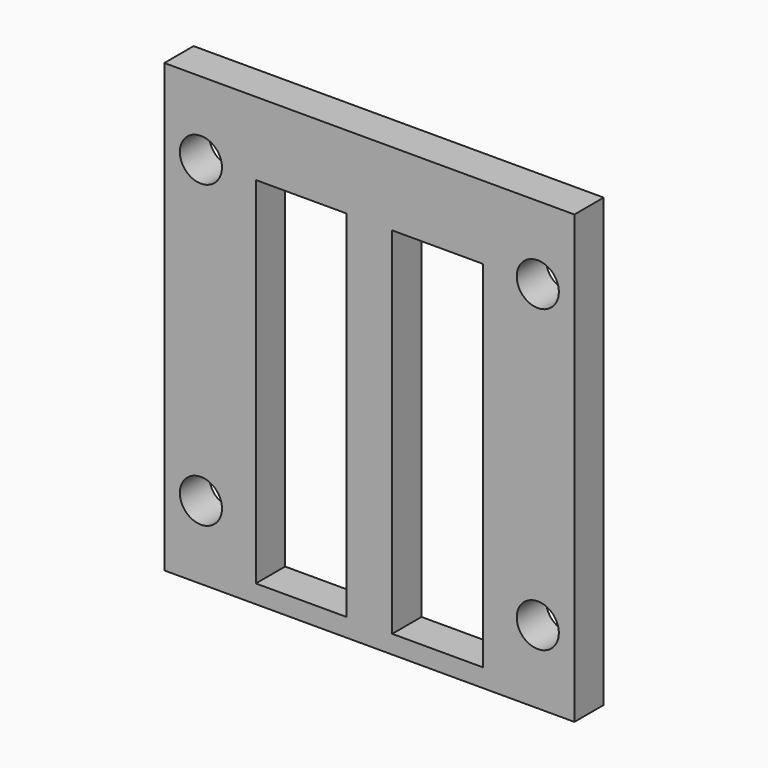
from build123d import *

# Parameters (mm, degrees)
F0_W     = 1.2
F0_H     = 1
F0_W_2   = 1.5
F0_W_3   = 4
F0_H_2   = 2
F0_R     = 1.15
F0_W_4   = 1
F0_H_3   = 4
F0_H_4   = 12.4
F0_W_5   = 4.95
F1_DEPTH = 2


with BuildPart() as f1:
    # F0 (on Front) → F1 (new body)
    with BuildSketch(Plane.XZ):
        with Locations((16.8, 0.5)):
            Rectangle(F0_W, F0_H)
        with Locations((15.45, 0.5)):
            Rectangle(F0_W_2, F0_H)
        Polygon((14.7, 0), (14.7, 1), (12.45, 1), (11.2, 1), (9.95, 1), (7.7, 1), (7.7, 0), align=None)
        Polygon((17.4, 20.4), (17.4, 1), (17.4, 0), (18.4, 0), (18.4, 2), (18.4, 6), (18.4, 18.4), (18.4, 20.4), align=None)
        with Locations((6.95, 0.5)):
            Rectangle(F0_W_2, F0_H)
        with Locations((20.4, 1)):
            Rectangle(F0_W_3, F0_H_2)
        Polygon((18.4, 22.4), (18.4, 20.4), (18.4, 18.4), (22.4, 18.4), (22.4, 22.4), align=None)
        with Locations((20.4, 20.4)):
            Circle(F0_R, mode=Mode.SUBTRACT)
        with Locations((17.9, 23.4)):
            Rectangle(F0_W_4, F0_H_2)
        Polygon((12.45, 22.4), (17.4, 22.4), (17.4, 24.4), (11.2, 24.4), (11.2, 22.4), align=None)
        with Locations((5.6, 0.5)):
            Rectangle(F0_W, F0_H)
        with Locations((20.4, 4)):
            Rectangle(F0_W_3, F0_H_3)
        with Locations((20.4, 4)):
            Circle(F0_R, mode=Mode.SUBTRACT)
        with Locations((20.4, 12.2)):
            Rectangle(F0_W_3, F0_H_4)
        with Locations((20.4, 23.4)):
            Rectangle(F0_W_3, F0_H_2)
        Polygon((4, 0), (5, 0), (5, 1), (5, 20.4), (4, 20.4), (4, 18.4), (4, 6), (4, 2), align=None)
        Polygon((9.95, 22.4), (11.2, 22.4), (11.2, 24.4), (5, 24.4), (5, 22.4), align=None)
        with Locations((2, 1)):
            Rectangle(F0_W_3, F0_H_2)
        with Locations((4.5, 23.4)):
            Rectangle(F0_W_4, F0_H_2)
        with Locations((2, 4)):
            Rectangle(F0_W_3, F0_H_3)
        with Locations((2, 4)):
            Circle(F0_R, mode=Mode.SUBTRACT)
        Polygon((4, 18.4), (4, 20.4), (4, 22.4), (0, 22.4), (0, 18.4), align=None)
        with Locations((2, 20.4)):
            Circle(F0_R, mode=Mode.SUBTRACT)
        with Locations((2, 23.4)):
            Rectangle(F0_W_3, F0_H_2)
        with Locations((2, 12.2)):
            Rectangle(F0_W_3, F0_H_4)
        Polygon((11.2, 1), (12.45, 1), (12.45, 20.4), (11.2, 20.4), (9.95, 20.4), (9.95, 1), align=None)
        with Locations((7.475, 21.4)):
            Rectangle(F0_W_5, F0_H_2)
        with Locations((4.5, 21.4)):
            Rectangle(F0_W_4, F0_H_2)
        Polygon((11.2, 20.4), (12.45, 20.4), (12.45, 22.4), (11.2, 22.4), (9.95, 22.4), (9.95, 20.4), align=None)
        with Locations((17.9, 21.4)):
            Rectangle(F0_W_4, F0_H_2)
        with Locations((14.925, 21.4)):
            Rectangle(F0_W_5, F0_H_2)
    extrude(amount=F1_DEPTH)


solid = f1.part
